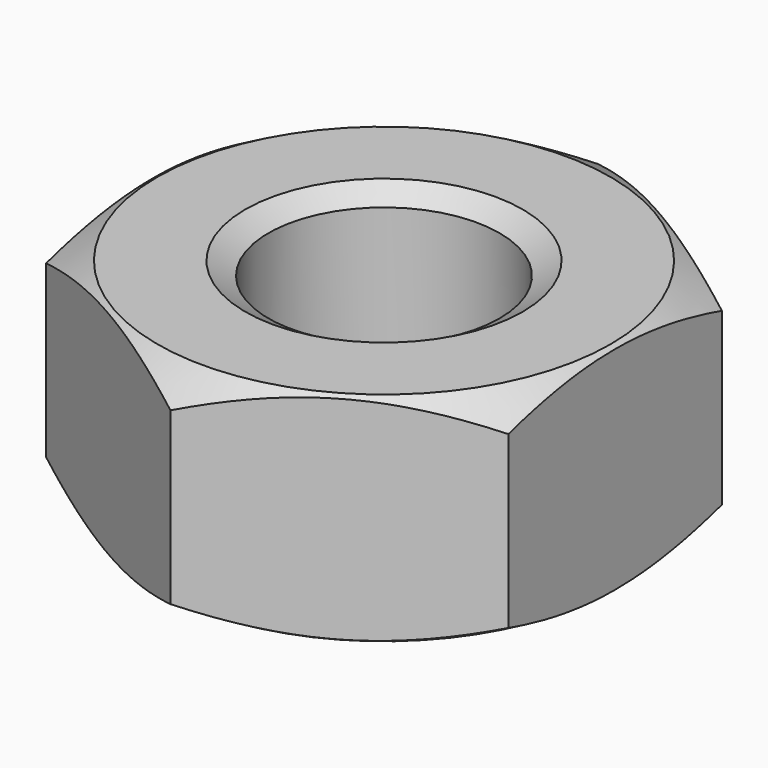
from build123d import *

# Parameters (mm, degrees)
SKETCH001_R  = 7
POCKET_DEPTH = 4.7


with BuildPart() as part:
    # Sketch → Revolution (revolve)
    with BuildSketch(Plane.XZ):
        Polygon((3, 0), (2.5, 0.288675), (2.5, 4.411325), (3, 4.7), (4.9, 4.7), (6, 4.064915), (6, 0.635085), (4.9, 0), align=None)
    revolve(axis=Axis((0, 0, 0), (0, 0, 1)))

    # Sketch001 → Pocket (cut)
    with BuildSketch(Plane(origin=(0, 0, 4.7), x_dir=(-1, 0, 0), z_dir=(0, 0, 1))):
        Circle(SKETCH001_R)
        Polygon((-5, 2.886751), (-5, -2.886751), (0, -5.773503), (5, -2.886751), (5, 2.886751), (0, 5.773503), align=None, mode=Mode.SUBTRACT)
    extrude(amount=-POCKET_DEPTH, mode=Mode.SUBTRACT)


solid = part.part
